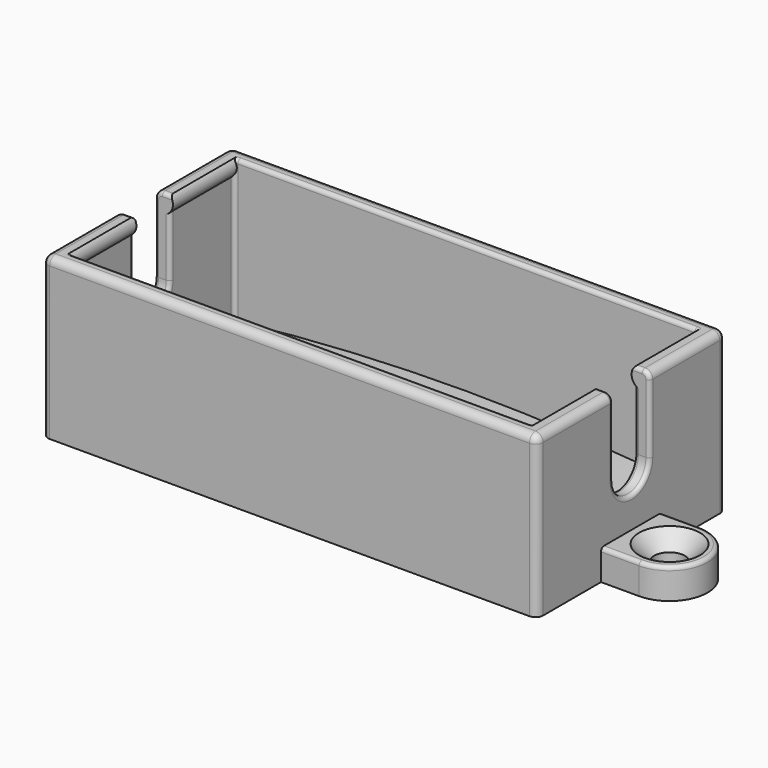
from build123d import *

# Parameters (mm, degrees)
F0_W      = 65
F0_H      = 31
F0_W_2    = 61
F0_H_2    = 27
F1_DEPTH  = 21
F3_DEPTH  = 29
F5_DEPTH  = 27
F7_DEPTH  = 27
F9_DEPTH  = 65.001
F10_R     = 0.5
F11_R     = 1
F12_R     = 1
F13_R     = 0.5
F14_R     = 0.5
F15_R     = 2
F16_DEPTH = 4
F17_SIZE  = 2
F18_R     = 0.5


with BuildPart() as f1:
    # F0 (on Top) → F1 (new body)
    with BuildSketch(Plane.XY):
        with Locations((30.5, 13.5)):
            Rectangle(F0_W, F0_H)
        with Locations((30.5, 13.5)):
            Rectangle(F0_W_2, F0_H_2, mode=Mode.SUBTRACT)
    extrude(amount=F1_DEPTH)

    # F2 (on face) → F3 (join, through all)
    with BuildSketch(Plane(origin=(0, 29, 0), x_dir=(-1, 0, 0), z_dir=(0, 1, 0))):
        with BuildLine():
            Line((-63, 2), (-63, 0))
            Line((-63, 0), (2, 0))
            Line((2, 0), (2, 2))
            ThreePointArc((2, 2), (-30.5, 4), (-63, 2))
        make_face()
    extrude(amount=-F3_DEPTH)

    # F4 (on face) → F5 (join, through all)
    with BuildSketch(Plane(origin=(0, 0, 0), x_dir=(-1, 0, 0), z_dir=(0, 1, 0))):
        with BuildLine():
            Line((-61, 21), (-61, 19))
            ThreePointArc((-61, 19), (-60.6180339887, 20), (-61, 21))
        make_face()
    extrude(amount=F5_DEPTH)

    # F6 (on face) → F7 (join, through all)
    with BuildSketch(Plane(origin=(0, 0, 0), x_dir=(-1, 0, 0), z_dir=(0, 1, 0))):
        with BuildLine():
            Line((0, 19), (0, 21))
            ThreePointArc((0, 21), (-0.3819660113, 20), (0, 19))
        make_face()
    extrude(amount=F7_DEPTH)

    # F8 (on face) → F9 (cut, through all)
    with BuildSketch(Plane.YZ.offset(63)):
        with BuildLine():
            Line((16.5, 21), (10.5, 21))
            Line((10.5, 21), (10.5, 11))
            ThreePointArc((10.5, 11), (13.5, 8), (16.5, 11))
            Line((16.5, 11), (16.5, 21))
        make_face()
    extrude(amount=-F9_DEPTH, mode=Mode.SUBTRACT)

    # F10
    f10_edges = [f1.edges().sort_by_distance(p)[0] for p in [
        (61, 0, 10.619689),
        (0, 0, 10.619689),
        (0, 27, 10.619689),
        (61, 27, 10.619689),
    ]]
    fillet(f10_edges, radius=F10_R)

    # F11
    f11_edges = [f1.edges().sort_by_distance(p)[0] for p in [
        (63, -2, 10.5),
        (63, 29, 10.5),
        (-2, -2, 10.5),
        (-2, 29, 10.5),
    ]]
    fillet(f11_edges, radius=F11_R)

    # F12
    f12_edges = [f1.edges().sort_by_distance(p)[0] for p in [
        (30.5, -2, 21),
        (30.5, 29, 21),
    ]]
    fillet(f12_edges, radius=F12_R)

    # F13
    f13_edges = [f1.edges().sort_by_distance(p)[0] for p in [
        (30.5, 27, 21),
        (30.5, 0, 21),
    ]]
    fillet(f13_edges, radius=F13_R)

    # F14
    f14_edges = [f1.edges().sort_by_distance(p)[0] for p in [
        (0, 16.5, 15),
        (-2, 16.5, 15.5),
        (63, 16.5, 15.5),
        (61, 16.5, 15),
    ]]
    fillet(f14_edges, radius=F14_R)

    # F15 (on face) → F16 (join)
    with BuildSketch(Plane(origin=(0, 0, 0), x_dir=(1, 0, 0), z_dir=(0, 0, -1))):
        with BuildLine():
            Line((-2, -18.5), (-2, -8.5))
            Line((-2, -8.5), (-7, -8.5))
            ThreePointArc((-7, -8.5), (-12, -13.5), (-7, -18.5))
            Line((-7, -18.5), (-2, -18.5))
        make_face()
        with Locations((-7, -13.5)):
            Circle(F15_R, mode=Mode.SUBTRACT)
        with BuildLine():
            Line((68, -8.5), (63, -8.5))
            Line((63, -8.5), (63, -18.5))
            Line((63, -18.5), (68, -18.5))
            ThreePointArc((68, -18.5), (73, -13.5), (68, -8.5))
        make_face()
        with Locations((68, -13.5)):
            Circle(F15_R, mode=Mode.SUBTRACT)
    extrude(amount=-F16_DEPTH)

    # F17
    f17_edges = [f1.edges().sort_by_distance(p)[0] for p in [
        (-9, 13.5, 4),
        (66, 13.5, 4),
    ]]
    chamfer(f17_edges, length=F17_SIZE)

    # F18
    f18_edges = [f1.edges().sort_by_distance(p)[0] for p in [
        (-12, 13.5, 4),
        (73, 13.5, 4),
    ]]
    fillet(f18_edges, radius=F18_R)


solid = f1.part
